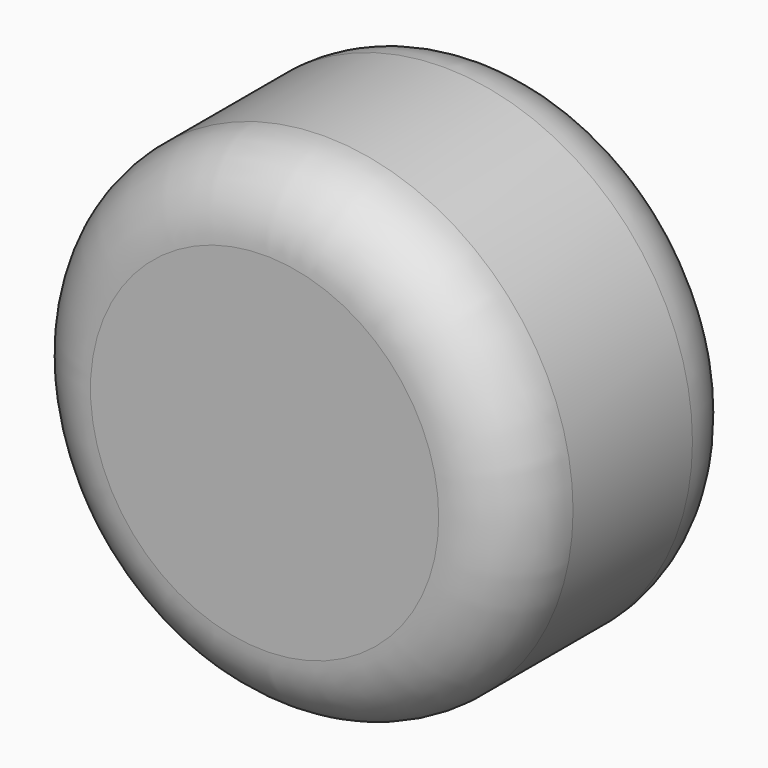
from build123d import *

# Parameters (mm, degrees)
F0_R     = 10
F1_DEPTH = 12
F2_R     = 3
F4_D     = 6
F4_DEPTH = 8
F4_TIP   = 1.8025818571


with BuildPart() as f1:
    # F0 (on Front) → F1 (new body)
    with BuildSketch(Plane.XZ):
        Circle(F0_R)
    extrude(amount=F1_DEPTH)

    # F2
    f2_edges = [f1.edges().sort_by_distance(p)[0] for p in [
        (-10, 0, 0),
        (-10, -12, 0),
    ]]
    fillet(f2_edges, radius=F2_R)

    # F4
    with Locations(Plane(origin=(0, 0, 0), x_dir=(1, 0, 0), z_dir=(0, 1, 0))):
        with Locations((0, 0)):
            Hole(F4_D / 2, depth=F4_DEPTH)
            with Locations((0, 0, -(F4_DEPTH + F4_TIP / 2))):  # 118° drill point
                Cone(0, F4_D / 2, F4_TIP, mode=Mode.SUBTRACT)


solid = f1.part
